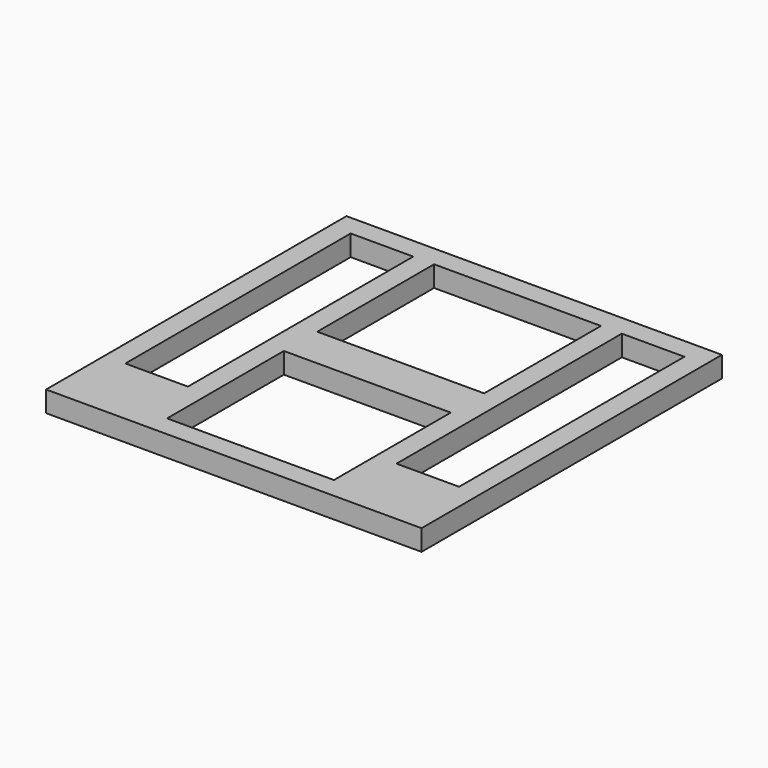
from build123d import *

# Parameters (mm, degrees)
F0_W     = 457.2
F0_H     = 457.2
F1_DEPTH = 25.4
F0_W_2   = 203.2
F0_H_2   = 25.4
F2_DEPTH = 25.4
F0_W_3   = 76.2
F0_H_3   = 63.5
F3_DEPTH = 25.4


with BuildPart() as f1:
    # F0 (on Top) → F1 (new body)
    with BuildSketch(Plane.XY):
        with Locations((-163.00304, -103.314487)):
            Rectangle(F0_W, F0_H)
        Polygon((-290.00304, 99.885513), (-264.60304, 99.885513), (-61.40304, 99.885513), (-36.00304, 99.885513), (40.19696, 99.885513), (40.19696, -103.314487), (40.19696, -243.014487), (40.19696, -306.514487), (-36.00304, -306.514487), (-61.40304, -306.514487), (-264.60304, -306.514487), (-290.00304, -306.514487), (-366.20304, -306.514487), (-366.20304, -243.014487), (-366.20304, -103.314487), (-366.20304, 99.885513), align=None, mode=Mode.SUBTRACT)
    extrude(amount=F1_DEPTH)

    # F0 (on Top) → F2 (join)
    with BuildSketch(Plane.XY):
        Polygon((-264.60304, -77.914487), (-264.60304, 99.885513), (-290.00304, 99.885513), (-290.00304, -103.314487), (-290.00304, -243.014487), (-290.00304, -306.514487), (-264.60304, -306.514487), (-264.60304, -128.714487), (-264.60304, -103.314487), align=None)
        Polygon((-36.00304, 99.885513), (-61.40304, 99.885513), (-61.40304, -77.914487), (-61.40304, -103.314487), (-61.40304, -128.714487), (-61.40304, -306.514487), (-36.00304, -306.514487), (-36.00304, -243.014487), (-36.00304, -103.314487), align=None)
        with Locations((-163.00304, -116.014487)):
            Rectangle(F0_W_2, F0_H_2)
        with Locations((-163.00304, -90.614487)):
            Rectangle(F0_W_2, F0_H_2)
    extrude(amount=F2_DEPTH)

    # F0 (on Top) → F3 (join)
    with BuildSketch(Plane.XY):
        with Locations((-328.10304, -274.764487)):
            Rectangle(F0_W_3, F0_H_3)
        with Locations((2.09696, -274.764487)):
            Rectangle(F0_W_3, F0_H_3)
    extrude(amount=F3_DEPTH)


solid = f1.part
